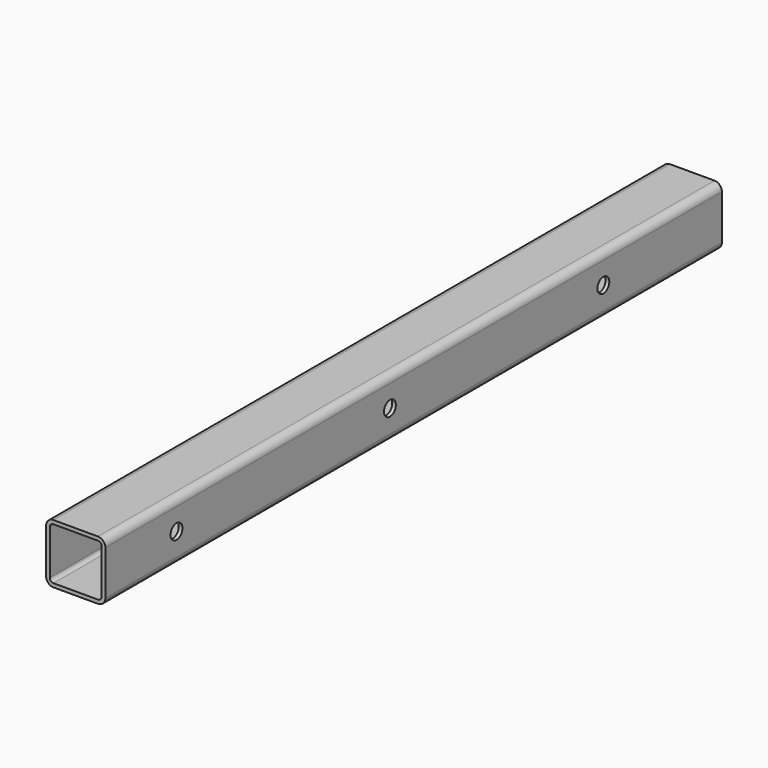
from build123d import *

# Parameters (mm, degrees)
F1_DEPTH = 330.2
F2_R     = 6.35
F3_DEPTH = 50.801


with BuildPart() as f1:
    # F0 (on Front) → F1 (new body, symmetric)
    with BuildSketch(Plane.XZ):
        with BuildLine():
            Line((-19.324615, -25.653992), (18.775385, -25.653992))
            ThreePointArc((18.775385, -25.653992), (23.265513, -23.79412), (25.125385, -19.303992))
            Line((25.125385, -19.303992), (25.125385, 18.796008))
            ThreePointArc((25.125385, 18.796008), (23.265513, 23.286136), (18.775385, 25.146008))
            Line((18.775385, 25.146008), (-19.324615, 25.146008))
            ThreePointArc((-19.324615, 25.146008), (-23.814743, 23.286136), (-25.674615, 18.796008))
            Line((-25.674615, 18.796008), (-25.674615, -19.303992))
            ThreePointArc((-25.674615, -19.303992), (-23.814743, -23.79412), (-19.324615, -25.653992))
        make_face()
        with BuildLine():
            Line((-19.324615, 21.971008), (18.775385, 21.971008))
            ThreePointArc((18.775385, 21.971008), (21.020449, 21.041072), (21.950385, 18.796008))
            Line((21.950385, 18.796008), (21.950385, -19.303992))
            ThreePointArc((21.950385, -19.303992), (21.020449, -21.549056), (18.775385, -22.478992))
            Line((18.775385, -22.478992), (-19.324615, -22.478992))
            ThreePointArc((-19.324615, -22.478992), (-21.569679, -21.549056), (-22.499615, -19.303992))
            Line((-22.499615, -19.303992), (-22.499615, 18.796008))
            ThreePointArc((-22.499615, 18.796008), (-21.569679, 21.041072), (-19.324615, 21.971008))
        make_face(mode=Mode.SUBTRACT)
    extrude(amount=F1_DEPTH, both=True)

    # F2 (on face) → F3 (cut, through all)
    with BuildSketch(Plane.YZ.offset(25.125385)):
        with Locations((-254, 0)):
            Circle(F2_R)
        with Locations((203.2, 0)):
            Circle(F2_R)
        with Locations((-25.4, 0)):
            Circle(F2_R)
    extrude(amount=-F3_DEPTH, mode=Mode.SUBTRACT)


solid = f1.part
